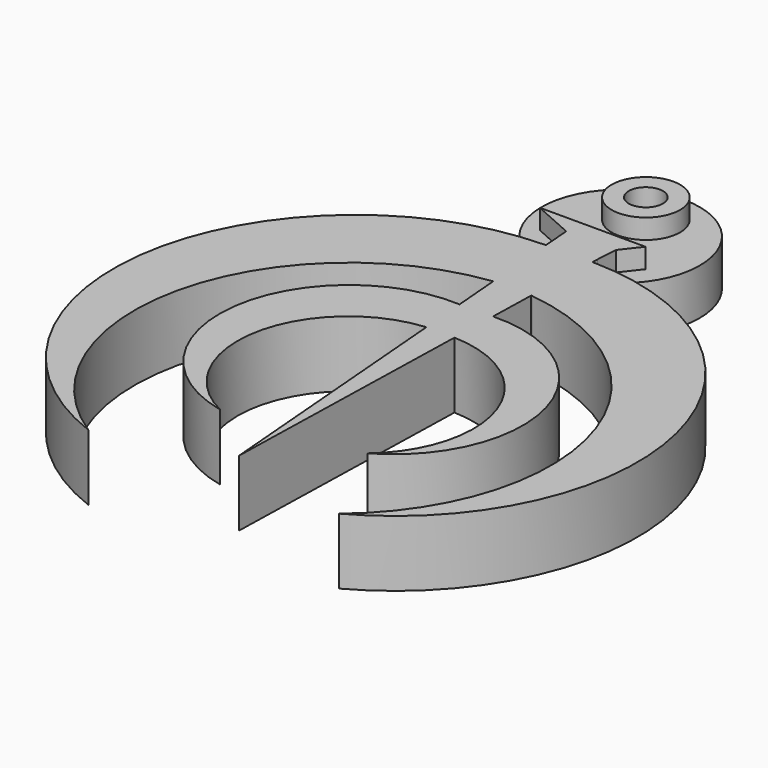
from build123d import *

# Parameters (mm, degrees)
F0_R     = 2.593894
F0_R_2   = 1.293642
F1_DEPTH = 5
F2_DEPTH = 3.5


with BuildPart() as f1:
    # F0 (on Top) → F1 (new body)
    with BuildSketch(Plane.XY):
        with BuildLine():
            Line((1.425506, 9.940118), (-6.58505, 9.940118))
            Line((-6.58505, 9.940118), (-3.471384, 8.55599))
            Line((-3.471384, 8.55599), (-3.302742, 6.420281))
            ThreePointArc((-3.302742, 6.420281), (-3.379662, 6.419285), (-3.456577, 6.417965))
            ThreePointArc((-3.456577, 6.417965), (-21.142236, -8.73411), (-9.653873, -28.992083))
            ThreePointArc((-9.653873, -28.992083), (-16.70845, -11.737899), (-2.945104, 0.833665))
            Line((-2.945104, 0.833665), (-2.843319, 0.847055))
            Line((-2.843319, 0.847055), (-2.55074, -2.702197))
            ThreePointArc((-2.55074, -2.702197), (-12.805749, -11.17816), (-5.189642, -22.086967))
            ThreePointArc((-5.189642, -22.086967), (-9.750605, -13.036025), (-2.261855, -6.206636))
            Line((-2.261855, -6.206636), (-0.629296, -26.01108))
            Line((-0.629296, -26.01108), (-0.12756, -6.217185))
            ThreePointArc((-0.12756, -6.217185), (7.571137, -11.820578), (5.109644, -21.018893))
            ThreePointArc((5.109644, -21.018893), (9.708689, -9.83234), (-0.037646, -2.669999))
            Line((-0.037646, -2.669999), (0.051206, 0.835289))
            Line((0.051206, 0.835289), (0.095484, 0.834166))
            ThreePointArc((0.095484, 0.834166), (13.907256, -10.817461), (8.635206, -28.101297))
            ThreePointArc((8.635206, -28.101297), (17.784898, -7.557994), (0.193587, 6.452358))
            Line((0.193587, 6.452358), (0.220572, 6.898117))
            Line((0.220572, 6.898117), (0.319286, 8.528735))
            Line((0.319286, 8.528735), (1.425506, 9.940118))
        make_face()
        with Locations((-2.516427, 14.9053)):
            Circle(F0_R)
        with Locations((-2.516427, 14.9053)):
            Circle(F0_R_2, mode=Mode.SUBTRACT)
    extrude(amount=F1_DEPTH)

    # F0 (on Top) → F2 (join)
    with BuildSketch(Plane.XY):
        with BuildLine():
            Line((-3.471384, 8.55599), (-6.58505, 9.940118))
            Line((-6.58505, 9.940118), (1.425506, 9.940118))
            Line((1.425506, 9.940118), (0.319286, 8.528735))
            Line((0.319286, 8.528735), (0.220572, 6.898117))
            ThreePointArc((0.220572, 6.898117), (-3.133712, 18.265814), (-3.456577, 6.417965))
            ThreePointArc((-3.456577, 6.417965), (-3.379662, 6.419285), (-3.302742, 6.420281))
            Line((-3.302742, 6.420281), (-3.471384, 8.55599))
        make_face()
        with Locations((-2.516427, 14.9053)):
            Circle(F0_R, mode=Mode.SUBTRACT)
    extrude(amount=F2_DEPTH)


solid = f1.part
